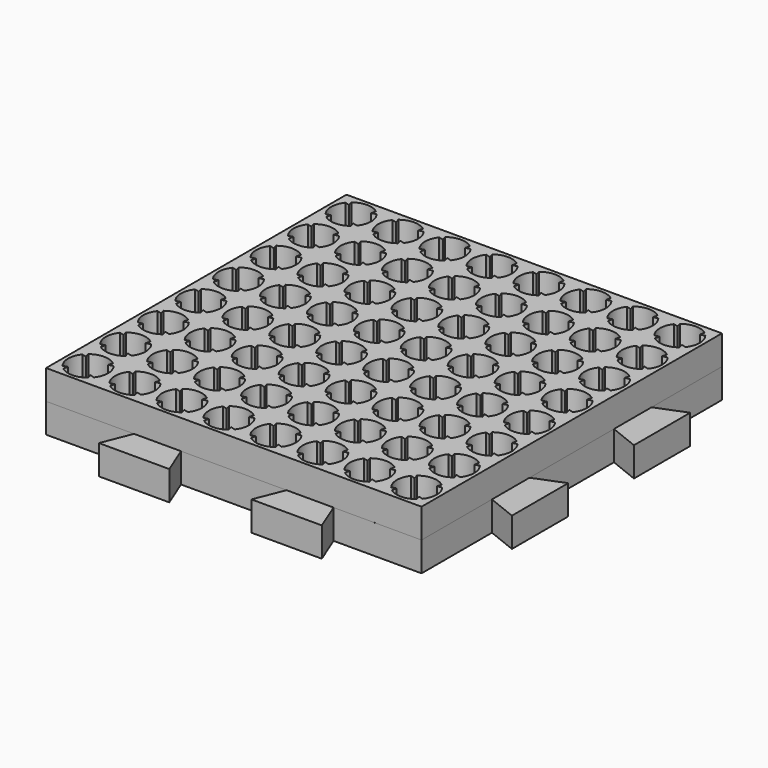
from build123d import *

# Parameters (mm, degrees)
SKETCH_W     = 64
SKETCH_H     = 64
PAD_DEPTH    = 5
PAD001_DEPTH = 5


with BuildPart() as body:
    # Sketch → Pad (new body)
    with BuildSketch(Plane.XY):
        with Locations((32, -24)):
            Rectangle(SKETCH_W, SKETCH_H)
        with BuildLine():
            ThreePointArc((1.895375, 1.32969), (4, 0.6), (6.104625, 1.32969))
            Line((5.897569, 2.102431), (6.104625, 1.32969))
            Line((6.67031, 1.895375), (5.897569, 2.102431))
            ThreePointArc((6.67031, 1.895375), (7.4, 4), (6.67031, 6.104625))
            Line((5.897569, 5.897569), (6.67031, 6.104625))
            Line((6.104625, 6.67031), (5.897569, 5.897569))
            ThreePointArc((6.104625, 6.67031), (4, 7.4), (1.895375, 6.67031))
            Line((2.102431, 5.897569), (1.895375, 6.67031))
            Line((1.32969, 6.104625), (2.102431, 5.897569))
            ThreePointArc((1.32969, 6.104625), (0.6, 4), (1.32969, 1.895375))
            Line((2.102431, 2.102431), (1.32969, 1.895375))
            Line((1.895375, 1.32969), (2.102431, 2.102431))
        make_face(mode=Mode.SUBTRACT)
        with BuildLine():
            ThreePointArc((9.898946, 1.327794), (12.003571, 0.598104), (14.108196, 1.327794))
            Line((13.90114, 2.100535), (14.108196, 1.327794))
            Line((14.673881, 1.893479), (13.90114, 2.100535))
            ThreePointArc((14.673881, 1.893479), (15.403571, 3.998104), (14.673881, 6.102729))
            Line((13.90114, 5.895673), (14.673881, 6.102729))
            Line((14.108196, 6.668414), (13.90114, 5.895673))
            ThreePointArc((14.108196, 6.668414), (12.003571, 7.398104), (9.898946, 6.668414))
            Line((10.106002, 5.895673), (9.898946, 6.668414))
            Line((9.333261, 6.102729), (10.106002, 5.895673))
            ThreePointArc((9.333261, 6.102729), (8.603571, 3.998104), (9.333261, 1.893479))
            Line((10.106002, 2.100535), (9.333261, 1.893479))
            Line((9.898946, 1.327794), (10.106002, 2.100535))
        make_face(mode=Mode.SUBTRACT)
        with BuildLine():
            ThreePointArc((17.902517, 1.325898), (20.007142, 0.596208), (22.111767, 1.325898))
            Line((21.904711, 2.098639), (22.111767, 1.325898))
            Line((22.677452, 1.891583), (21.904711, 2.098639))
            ThreePointArc((22.677452, 1.891583), (23.407142, 3.996208), (22.677452, 6.100833))
            Line((21.904711, 5.893777), (22.677452, 6.100833))
            Line((22.111767, 6.666518), (21.904711, 5.893777))
            ThreePointArc((22.111767, 6.666518), (20.007142, 7.396208), (17.902517, 6.666518))
            Line((18.109573, 5.893777), (17.902517, 6.666518))
            Line((17.336832, 6.100833), (18.109573, 5.893777))
            ThreePointArc((17.336832, 6.100833), (16.607142, 3.996208), (17.336832, 1.891583))
            Line((18.109573, 2.098639), (17.336832, 1.891583))
            Line((17.902517, 1.325898), (18.109573, 2.098639))
        make_face(mode=Mode.SUBTRACT)
        with BuildLine():
            ThreePointArc((25.906088, 1.324002), (28.010713, 0.594312), (30.115338, 1.324002))
            Line((29.908282, 2.096743), (30.115338, 1.324002))
            Line((30.681023, 1.889687), (29.908282, 2.096743))
            ThreePointArc((30.681023, 1.889687), (31.410713, 3.994312), (30.681023, 6.098937))
            Line((29.908282, 5.891881), (30.681023, 6.098937))
            Line((30.115338, 6.664622), (29.908282, 5.891881))
            ThreePointArc((30.115338, 6.664622), (28.010713, 7.394312), (25.906088, 6.664622))
            Line((26.113144, 5.891881), (25.906088, 6.664622))
            Line((25.340403, 6.098937), (26.113144, 5.891881))
            ThreePointArc((25.340403, 6.098937), (24.610713, 3.994312), (25.340403, 1.889687))
            Line((26.113144, 2.096743), (25.340403, 1.889687))
            Line((25.906088, 1.324002), (26.113144, 2.096743))
        make_face(mode=Mode.SUBTRACT)
        with BuildLine():
            ThreePointArc((33.909659, 1.322106), (36.014284, 0.592416), (38.118909, 1.322106))
            Line((37.911853, 2.094847), (38.118909, 1.322106))
            Line((38.684594, 1.887791), (37.911853, 2.094847))
            ThreePointArc((38.684594, 1.887791), (39.414284, 3.992416), (38.684594, 6.097041))
            Line((37.911853, 5.889985), (38.684594, 6.097041))
            Line((38.118909, 6.662726), (37.911853, 5.889985))
            ThreePointArc((38.118909, 6.662726), (36.014284, 7.392416), (33.909659, 6.662726))
            Line((34.116715, 5.889985), (33.909659, 6.662726))
            Line((33.343974, 6.097041), (34.116715, 5.889985))
            ThreePointArc((33.343974, 6.097041), (32.614284, 3.992416), (33.343974, 1.887791))
            Line((34.116715, 2.094847), (33.343974, 1.887791))
            Line((33.909659, 1.322106), (34.116715, 2.094847))
        make_face(mode=Mode.SUBTRACT)
        with BuildLine():
            ThreePointArc((41.91323, 1.32021), (44.017855, 0.59052), (46.12248, 1.32021))
            Line((45.915424, 2.092951), (46.12248, 1.32021))
            Line((46.688165, 1.885895), (45.915424, 2.092951))
            ThreePointArc((46.688165, 1.885895), (47.417855, 3.99052), (46.688165, 6.095145))
            Line((45.915424, 5.888089), (46.688165, 6.095145))
            Line((46.12248, 6.66083), (45.915424, 5.888089))
            ThreePointArc((46.12248, 6.66083), (44.017855, 7.39052), (41.91323, 6.66083))
            Line((42.120286, 5.888089), (41.91323, 6.66083))
            Line((41.347545, 6.095145), (42.120286, 5.888089))
            ThreePointArc((41.347545, 6.095145), (40.617855, 3.99052), (41.347545, 1.885895))
            Line((42.120286, 2.092951), (41.347545, 1.885895))
            Line((41.91323, 1.32021), (42.120286, 2.092951))
        make_face(mode=Mode.SUBTRACT)
        with BuildLine():
            ThreePointArc((49.916801, 1.318314), (52.021426, 0.588624), (54.126051, 1.318314))
            Line((53.918995, 2.091055), (54.126051, 1.318314))
            Line((54.691736, 1.883999), (53.918995, 2.091055))
            ThreePointArc((54.691736, 1.883999), (55.421426, 3.988624), (54.691736, 6.093249))
            Line((53.918995, 5.886193), (54.691736, 6.093249))
            Line((54.126051, 6.658934), (53.918995, 5.886193))
            ThreePointArc((54.126051, 6.658934), (52.021426, 7.388624), (49.916801, 6.658934))
            Line((50.123857, 5.886193), (49.916801, 6.658934))
            Line((49.351116, 6.093249), (50.123857, 5.886193))
            ThreePointArc((49.351116, 6.093249), (48.621426, 3.988624), (49.351116, 1.883999))
            Line((50.123857, 2.091055), (49.351116, 1.883999))
            Line((49.916801, 1.318314), (50.123857, 2.091055))
        make_face(mode=Mode.SUBTRACT)
        with BuildLine():
            ThreePointArc((57.920372, 1.316418), (60.024997, 0.586728), (62.129622, 1.316418))
            Line((61.922566, 2.089159), (62.129622, 1.316418))
            Line((62.695307, 1.882103), (61.922566, 2.089159))
            ThreePointArc((62.695307, 1.882103), (63.424997, 3.986728), (62.695307, 6.091353))
            Line((61.922566, 5.884297), (62.695307, 6.091353))
            Line((62.129622, 6.657038), (61.922566, 5.884297))
            ThreePointArc((62.129622, 6.657038), (60.024997, 7.386728), (57.920372, 6.657038))
            Line((58.127428, 5.884297), (57.920372, 6.657038))
            Line((57.354687, 6.091353), (58.127428, 5.884297))
            ThreePointArc((57.354687, 6.091353), (56.624997, 3.986728), (57.354687, 1.882103))
            Line((58.127428, 2.089159), (57.354687, 1.882103))
            Line((57.920372, 1.316418), (58.127428, 2.089159))
        make_face(mode=Mode.SUBTRACT)
        with BuildLine():
            ThreePointArc((1.893479, -6.673881), (3.998104, -7.403571), (6.102729, -6.673881))
            Line((5.895673, -5.90114), (6.102729, -6.673881))
            Line((6.668414, -6.108196), (5.895673, -5.90114))
            ThreePointArc((6.668414, -6.108196), (7.398104, -4.003571), (6.668414, -1.898946))
            Line((5.895673, -2.106002), (6.668414, -1.898946))
            Line((6.102729, -1.333261), (5.895673, -2.106002))
            ThreePointArc((6.102729, -1.333261), (3.998104, -0.603571), (1.893479, -1.333261))
            Line((2.100535, -2.106002), (1.893479, -1.333261))
            Line((1.327794, -1.898946), (2.100535, -2.106002))
            ThreePointArc((1.327794, -1.898946), (0.598104, -4.003571), (1.327794, -6.108196))
            Line((2.100535, -5.90114), (1.327794, -6.108196))
            Line((1.893479, -6.673881), (2.100535, -5.90114))
        make_face(mode=Mode.SUBTRACT)
        with BuildLine():
            ThreePointArc((9.89705, -6.675777), (12.001675, -7.405467), (14.1063, -6.675777))
            Line((13.899244, -5.903036), (14.1063, -6.675777))
            Line((14.671985, -6.110092), (13.899244, -5.903036))
            ThreePointArc((14.671985, -6.110092), (15.401675, -4.005467), (14.671985, -1.900842))
            Line((13.899244, -2.107898), (14.671985, -1.900842))
            Line((14.1063, -1.335157), (13.899244, -2.107898))
            ThreePointArc((14.1063, -1.335157), (12.001675, -0.605467), (9.89705, -1.335157))
            Line((10.104106, -2.107898), (9.89705, -1.335157))
            Line((9.331365, -1.900842), (10.104106, -2.107898))
            ThreePointArc((9.331365, -1.900842), (8.601675, -4.005467), (9.331365, -6.110092))
            Line((10.104106, -5.903036), (9.331365, -6.110092))
            Line((9.89705, -6.675777), (10.104106, -5.903036))
        make_face(mode=Mode.SUBTRACT)
        with BuildLine():
            ThreePointArc((17.900621, -6.677673), (20.005246, -7.407363), (22.109871, -6.677673))
            Line((21.902815, -5.904932), (22.109871, -6.677673))
            Line((22.675556, -6.111988), (21.902815, -5.904932))
            ThreePointArc((22.675556, -6.111988), (23.405246, -4.007363), (22.675556, -1.902738))
            Line((21.902815, -2.109794), (22.675556, -1.902738))
            Line((22.109871, -1.337053), (21.902815, -2.109794))
            ThreePointArc((22.109871, -1.337053), (20.005246, -0.607363), (17.900621, -1.337053))
            Line((18.107677, -2.109794), (17.900621, -1.337053))
            Line((17.334936, -1.902738), (18.107677, -2.109794))
            ThreePointArc((17.334936, -1.902738), (16.605246, -4.007363), (17.334936, -6.111988))
            Line((18.107677, -5.904932), (17.334936, -6.111988))
            Line((17.900621, -6.677673), (18.107677, -5.904932))
        make_face(mode=Mode.SUBTRACT)
        with BuildLine():
            ThreePointArc((25.904192, -6.679569), (28.008817, -7.409259), (30.113442, -6.679569))
            Line((29.906386, -5.906828), (30.113442, -6.679569))
            Line((30.679127, -6.113884), (29.906386, -5.906828))
            ThreePointArc((30.679127, -6.113884), (31.408817, -4.009259), (30.679127, -1.904634))
            Line((29.906386, -2.11169), (30.679127, -1.904634))
            Line((30.113442, -1.338949), (29.906386, -2.11169))
            ThreePointArc((30.113442, -1.338949), (28.008817, -0.609259), (25.904192, -1.338949))
            Line((26.111248, -2.11169), (25.904192, -1.338949))
            Line((25.338507, -1.904634), (26.111248, -2.11169))
            ThreePointArc((25.338507, -1.904634), (24.608817, -4.009259), (25.338507, -6.113884))
            Line((26.111248, -5.906828), (25.338507, -6.113884))
            Line((25.904192, -6.679569), (26.111248, -5.906828))
        make_face(mode=Mode.SUBTRACT)
        with BuildLine():
            ThreePointArc((33.907763, -6.681465), (36.012388, -7.411155), (38.117013, -6.681465))
            Line((37.909957, -5.908724), (38.117013, -6.681465))
            Line((38.682698, -6.11578), (37.909957, -5.908724))
            ThreePointArc((38.682698, -6.11578), (39.412388, -4.011155), (38.682698, -1.90653))
            Line((37.909957, -2.113586), (38.682698, -1.90653))
            Line((38.117013, -1.340845), (37.909957, -2.113586))
            ThreePointArc((38.117013, -1.340845), (36.012388, -0.611155), (33.907763, -1.340845))
            Line((34.114819, -2.113586), (33.907763, -1.340845))
            Line((33.342078, -1.90653), (34.114819, -2.113586))
            ThreePointArc((33.342078, -1.90653), (32.612388, -4.011155), (33.342078, -6.11578))
            Line((34.114819, -5.908724), (33.342078, -6.11578))
            Line((33.907763, -6.681465), (34.114819, -5.908724))
        make_face(mode=Mode.SUBTRACT)
        with BuildLine():
            ThreePointArc((41.911334, -6.683361), (44.015959, -7.413051), (46.120584, -6.683361))
            Line((45.913528, -5.91062), (46.120584, -6.683361))
            Line((46.686269, -6.117676), (45.913528, -5.91062))
            ThreePointArc((46.686269, -6.117676), (47.415959, -4.013051), (46.686269, -1.908426))
            Line((45.913528, -2.115482), (46.686269, -1.908426))
            Line((46.120584, -1.342741), (45.913528, -2.115482))
            ThreePointArc((46.120584, -1.342741), (44.015959, -0.613051), (41.911334, -1.342741))
            Line((42.11839, -2.115482), (41.911334, -1.342741))
            Line((41.345649, -1.908426), (42.11839, -2.115482))
            ThreePointArc((41.345649, -1.908426), (40.615959, -4.013051), (41.345649, -6.117676))
            Line((42.11839, -5.91062), (41.345649, -6.117676))
            Line((41.911334, -6.683361), (42.11839, -5.91062))
        make_face(mode=Mode.SUBTRACT)
        with BuildLine():
            ThreePointArc((49.914905, -6.685257), (52.01953, -7.414947), (54.124155, -6.685257))
            Line((53.917099, -5.912516), (54.124155, -6.685257))
            Line((54.68984, -6.119572), (53.917099, -5.912516))
            ThreePointArc((54.68984, -6.119572), (55.41953, -4.014947), (54.68984, -1.910322))
            Line((53.917099, -2.117378), (54.68984, -1.910322))
            Line((54.124155, -1.344637), (53.917099, -2.117378))
            ThreePointArc((54.124155, -1.344637), (52.01953, -0.614947), (49.914905, -1.344637))
            Line((50.121961, -2.117378), (49.914905, -1.344637))
            Line((49.34922, -1.910322), (50.121961, -2.117378))
            ThreePointArc((49.34922, -1.910322), (48.61953, -4.014947), (49.34922, -6.119572))
            Line((50.121961, -5.912516), (49.34922, -6.119572))
            Line((49.914905, -6.685257), (50.121961, -5.912516))
        make_face(mode=Mode.SUBTRACT)
        with BuildLine():
            ThreePointArc((57.918476, -6.687153), (60.023101, -7.416843), (62.127726, -6.687153))
            Line((61.92067, -5.914412), (62.127726, -6.687153))
            Line((62.693411, -6.121468), (61.92067, -5.914412))
            ThreePointArc((62.693411, -6.121468), (63.423101, -4.016843), (62.693411, -1.912218))
            Line((61.92067, -2.119274), (62.693411, -1.912218))
            Line((62.127726, -1.346533), (61.92067, -2.119274))
            ThreePointArc((62.127726, -1.346533), (60.023101, -0.616843), (57.918476, -1.346533))
            Line((58.125532, -2.119274), (57.918476, -1.346533))
            Line((57.352791, -1.912218), (58.125532, -2.119274))
            ThreePointArc((57.352791, -1.912218), (56.623101, -4.016843), (57.352791, -6.121468))
            Line((58.125532, -5.914412), (57.352791, -6.121468))
            Line((57.918476, -6.687153), (58.125532, -5.914412))
        make_face(mode=Mode.SUBTRACT)
        with BuildLine():
            ThreePointArc((1.891583, -14.677452), (3.996208, -15.407142), (6.100833, -14.677452))
            Line((5.893777, -13.904711), (6.100833, -14.677452))
            Line((6.666518, -14.111767), (5.893777, -13.904711))
            ThreePointArc((6.666518, -14.111767), (7.396208, -12.007142), (6.666518, -9.902517))
            Line((5.893777, -10.109573), (6.666518, -9.902517))
            Line((6.100833, -9.336832), (5.893777, -10.109573))
            ThreePointArc((6.100833, -9.336832), (3.996208, -8.607142), (1.891583, -9.336832))
            Line((2.098639, -10.109573), (1.891583, -9.336832))
            Line((1.325898, -9.902517), (2.098639, -10.109573))
            ThreePointArc((1.325898, -9.902517), (0.596208, -12.007142), (1.325898, -14.111767))
            Line((2.098639, -13.904711), (1.325898, -14.111767))
            Line((1.891583, -14.677452), (2.098639, -13.904711))
        make_face(mode=Mode.SUBTRACT)
        with BuildLine():
            ThreePointArc((9.895154, -14.679348), (11.999779, -15.409038), (14.104404, -14.679348))
            Line((13.897348, -13.906607), (14.104404, -14.679348))
            Line((14.670089, -14.113663), (13.897348, -13.906607))
            ThreePointArc((14.670089, -14.113663), (15.399779, -12.009038), (14.670089, -9.904413))
            Line((13.897348, -10.111469), (14.670089, -9.904413))
            Line((14.104404, -9.338728), (13.897348, -10.111469))
            ThreePointArc((14.104404, -9.338728), (11.999779, -8.609038), (9.895154, -9.338728))
            Line((10.10221, -10.111469), (9.895154, -9.338728))
            Line((9.329469, -9.904413), (10.10221, -10.111469))
            ThreePointArc((9.329469, -9.904413), (8.599779, -12.009038), (9.329469, -14.113663))
            Line((10.10221, -13.906607), (9.329469, -14.113663))
            Line((9.895154, -14.679348), (10.10221, -13.906607))
        make_face(mode=Mode.SUBTRACT)
        with BuildLine():
            ThreePointArc((17.898725, -14.681244), (20.00335, -15.410934), (22.107975, -14.681244))
            Line((21.900919, -13.908503), (22.107975, -14.681244))
            Line((22.67366, -14.115559), (21.900919, -13.908503))
            ThreePointArc((22.67366, -14.115559), (23.40335, -12.010934), (22.67366, -9.906309))
            Line((21.900919, -10.113365), (22.67366, -9.906309))
            Line((22.107975, -9.340624), (21.900919, -10.113365))
            ThreePointArc((22.107975, -9.340624), (20.00335, -8.610934), (17.898725, -9.340624))
            Line((18.105781, -10.113365), (17.898725, -9.340624))
            Line((17.33304, -9.906309), (18.105781, -10.113365))
            ThreePointArc((17.33304, -9.906309), (16.60335, -12.010934), (17.33304, -14.115559))
            Line((18.105781, -13.908503), (17.33304, -14.115559))
            Line((17.898725, -14.681244), (18.105781, -13.908503))
        make_face(mode=Mode.SUBTRACT)
        with BuildLine():
            ThreePointArc((25.902296, -14.68314), (28.006921, -15.41283), (30.111546, -14.68314))
            Line((29.90449, -13.910399), (30.111546, -14.68314))
            Line((30.677231, -14.117455), (29.90449, -13.910399))
            ThreePointArc((30.677231, -14.117455), (31.406921, -12.01283), (30.677231, -9.908205))
            Line((29.90449, -10.115261), (30.677231, -9.908205))
            Line((30.111546, -9.34252), (29.90449, -10.115261))
            ThreePointArc((30.111546, -9.34252), (28.006921, -8.61283), (25.902296, -9.34252))
            Line((26.109352, -10.115261), (25.902296, -9.34252))
            Line((25.336611, -9.908205), (26.109352, -10.115261))
            ThreePointArc((25.336611, -9.908205), (24.606921, -12.01283), (25.336611, -14.117455))
            Line((26.109352, -13.910399), (25.336611, -14.117455))
            Line((25.902296, -14.68314), (26.109352, -13.910399))
        make_face(mode=Mode.SUBTRACT)
        with BuildLine():
            ThreePointArc((33.905867, -14.685036), (36.010492, -15.414726), (38.115117, -14.685036))
            Line((37.908061, -13.912295), (38.115117, -14.685036))
            Line((38.680802, -14.119351), (37.908061, -13.912295))
            ThreePointArc((38.680802, -14.119351), (39.410492, -12.014726), (38.680802, -9.910101))
            Line((37.908061, -10.117157), (38.680802, -9.910101))
            Line((38.115117, -9.344416), (37.908061, -10.117157))
            ThreePointArc((38.115117, -9.344416), (36.010492, -8.614726), (33.905867, -9.344416))
            Line((34.112923, -10.117157), (33.905867, -9.344416))
            Line((33.340182, -9.910101), (34.112923, -10.117157))
            ThreePointArc((33.340182, -9.910101), (32.610492, -12.014726), (33.340182, -14.119351))
            Line((34.112923, -13.912295), (33.340182, -14.119351))
            Line((33.905867, -14.685036), (34.112923, -13.912295))
        make_face(mode=Mode.SUBTRACT)
        with BuildLine():
            ThreePointArc((41.909438, -14.686932), (44.014063, -15.416622), (46.118688, -14.686932))
            Line((45.911632, -13.914191), (46.118688, -14.686932))
            Line((46.684373, -14.121247), (45.911632, -13.914191))
            ThreePointArc((46.684373, -14.121247), (47.414063, -12.016622), (46.684373, -9.911997))
            Line((45.911632, -10.119053), (46.684373, -9.911997))
            Line((46.118688, -9.346312), (45.911632, -10.119053))
            ThreePointArc((46.118688, -9.346312), (44.014063, -8.616622), (41.909438, -9.346312))
            Line((42.116494, -10.119053), (41.909438, -9.346312))
            Line((41.343753, -9.911997), (42.116494, -10.119053))
            ThreePointArc((41.343753, -9.911997), (40.614063, -12.016622), (41.343753, -14.121247))
            Line((42.116494, -13.914191), (41.343753, -14.121247))
            Line((41.909438, -14.686932), (42.116494, -13.914191))
        make_face(mode=Mode.SUBTRACT)
        with BuildLine():
            ThreePointArc((49.913009, -14.688828), (52.017634, -15.418518), (54.122259, -14.688828))
            Line((53.915203, -13.916087), (54.122259, -14.688828))
            Line((54.687944, -14.123143), (53.915203, -13.916087))
            ThreePointArc((54.687944, -14.123143), (55.417634, -12.018518), (54.687944, -9.913893))
            Line((53.915203, -10.120949), (54.687944, -9.913893))
            Line((54.122259, -9.348208), (53.915203, -10.120949))
            ThreePointArc((54.122259, -9.348208), (52.017634, -8.618518), (49.913009, -9.348208))
            Line((50.120065, -10.120949), (49.913009, -9.348208))
            Line((49.347324, -9.913893), (50.120065, -10.120949))
            ThreePointArc((49.347324, -9.913893), (48.617634, -12.018518), (49.347324, -14.123143))
            Line((50.120065, -13.916087), (49.347324, -14.123143))
            Line((49.913009, -14.688828), (50.120065, -13.916087))
        make_face(mode=Mode.SUBTRACT)
        with BuildLine():
            ThreePointArc((57.91658, -14.690724), (60.021205, -15.420414), (62.12583, -14.690724))
            Line((61.918774, -13.917983), (62.12583, -14.690724))
            Line((62.691515, -14.125039), (61.918774, -13.917983))
            ThreePointArc((62.691515, -14.125039), (63.421205, -12.020414), (62.691515, -9.915789))
            Line((61.918774, -10.122845), (62.691515, -9.915789))
            Line((62.12583, -9.350104), (61.918774, -10.122845))
            ThreePointArc((62.12583, -9.350104), (60.021205, -8.620414), (57.91658, -9.350104))
            Line((58.123636, -10.122845), (57.91658, -9.350104))
            Line((57.350895, -9.915789), (58.123636, -10.122845))
            ThreePointArc((57.350895, -9.915789), (56.621205, -12.020414), (57.350895, -14.125039))
            Line((58.123636, -13.917983), (57.350895, -14.125039))
            Line((57.91658, -14.690724), (58.123636, -13.917983))
        make_face(mode=Mode.SUBTRACT)
        with BuildLine():
            ThreePointArc((1.889687, -22.681023), (3.994312, -23.410713), (6.098937, -22.681023))
            Line((5.891881, -21.908282), (6.098937, -22.681023))
            Line((6.664622, -22.115338), (5.891881, -21.908282))
            ThreePointArc((6.664622, -22.115338), (7.394312, -20.010713), (6.664622, -17.906088))
            Line((5.891881, -18.113144), (6.664622, -17.906088))
            Line((6.098937, -17.340403), (5.891881, -18.113144))
            ThreePointArc((6.098937, -17.340403), (3.994312, -16.610713), (1.889687, -17.340403))
            Line((2.096743, -18.113144), (1.889687, -17.340403))
            Line((1.324002, -17.906088), (2.096743, -18.113144))
            ThreePointArc((1.324002, -17.906088), (0.594312, -20.010713), (1.324002, -22.115338))
            Line((2.096743, -21.908282), (1.324002, -22.115338))
            Line((1.889687, -22.681023), (2.096743, -21.908282))
        make_face(mode=Mode.SUBTRACT)
        with BuildLine():
            ThreePointArc((9.893258, -22.682919), (11.997883, -23.412609), (14.102508, -22.682919))
            Line((13.895452, -21.910178), (14.102508, -22.682919))
            Line((14.668193, -22.117234), (13.895452, -21.910178))
            ThreePointArc((14.668193, -22.117234), (15.397883, -20.012609), (14.668193, -17.907984))
            Line((13.895452, -18.11504), (14.668193, -17.907984))
            Line((14.102508, -17.342299), (13.895452, -18.11504))
            ThreePointArc((14.102508, -17.342299), (11.997883, -16.612609), (9.893258, -17.342299))
            Line((10.100314, -18.11504), (9.893258, -17.342299))
            Line((9.327573, -17.907984), (10.100314, -18.11504))
            ThreePointArc((9.327573, -17.907984), (8.597883, -20.012609), (9.327573, -22.117234))
            Line((10.100314, -21.910178), (9.327573, -22.117234))
            Line((9.893258, -22.682919), (10.100314, -21.910178))
        make_face(mode=Mode.SUBTRACT)
        with BuildLine():
            ThreePointArc((17.896829, -22.684815), (20.001454, -23.414505), (22.106079, -22.684815))
            Line((21.899023, -21.912074), (22.106079, -22.684815))
            Line((22.671764, -22.11913), (21.899023, -21.912074))
            ThreePointArc((22.671764, -22.11913), (23.401454, -20.014505), (22.671764, -17.90988))
            Line((21.899023, -18.116936), (22.671764, -17.90988))
            Line((22.106079, -17.344195), (21.899023, -18.116936))
            ThreePointArc((22.106079, -17.344195), (20.001454, -16.614505), (17.896829, -17.344195))
            Line((18.103885, -18.116936), (17.896829, -17.344195))
            Line((17.331144, -17.90988), (18.103885, -18.116936))
            ThreePointArc((17.331144, -17.90988), (16.601454, -20.014505), (17.331144, -22.11913))
            Line((18.103885, -21.912074), (17.331144, -22.11913))
            Line((17.896829, -22.684815), (18.103885, -21.912074))
        make_face(mode=Mode.SUBTRACT)
        with BuildLine():
            ThreePointArc((25.9004, -22.686711), (28.005025, -23.416401), (30.10965, -22.686711))
            Line((29.902594, -21.91397), (30.10965, -22.686711))
            Line((30.675335, -22.121026), (29.902594, -21.91397))
            ThreePointArc((30.675335, -22.121026), (31.405025, -20.016401), (30.675335, -17.911776))
            Line((29.902594, -18.118832), (30.675335, -17.911776))
            Line((30.10965, -17.346091), (29.902594, -18.118832))
            ThreePointArc((30.10965, -17.346091), (28.005025, -16.616401), (25.9004, -17.346091))
            Line((26.107456, -18.118832), (25.9004, -17.346091))
            Line((25.334715, -17.911776), (26.107456, -18.118832))
            ThreePointArc((25.334715, -17.911776), (24.605025, -20.016401), (25.334715, -22.121026))
            Line((26.107456, -21.91397), (25.334715, -22.121026))
            Line((25.9004, -22.686711), (26.107456, -21.91397))
        make_face(mode=Mode.SUBTRACT)
        with BuildLine():
            ThreePointArc((33.903971, -22.688607), (36.008596, -23.418297), (38.113221, -22.688607))
            Line((37.906165, -21.915866), (38.113221, -22.688607))
            Line((38.678906, -22.122922), (37.906165, -21.915866))
            ThreePointArc((38.678906, -22.122922), (39.408596, -20.018297), (38.678906, -17.913672))
            Line((37.906165, -18.120728), (38.678906, -17.913672))
            Line((38.113221, -17.347987), (37.906165, -18.120728))
            ThreePointArc((38.113221, -17.347987), (36.008596, -16.618297), (33.903971, -17.347987))
            Line((34.111027, -18.120728), (33.903971, -17.347987))
            Line((33.338286, -17.913672), (34.111027, -18.120728))
            ThreePointArc((33.338286, -17.913672), (32.608596, -20.018297), (33.338286, -22.122922))
            Line((34.111027, -21.915866), (33.338286, -22.122922))
            Line((33.903971, -22.688607), (34.111027, -21.915866))
        make_face(mode=Mode.SUBTRACT)
        with BuildLine():
            ThreePointArc((41.907542, -22.690503), (44.012167, -23.420193), (46.116792, -22.690503))
            Line((45.909736, -21.917762), (46.116792, -22.690503))
            Line((46.682477, -22.124818), (45.909736, -21.917762))
            ThreePointArc((46.682477, -22.124818), (47.412167, -20.020193), (46.682477, -17.915568))
            Line((45.909736, -18.122624), (46.682477, -17.915568))
            Line((46.116792, -17.349883), (45.909736, -18.122624))
            ThreePointArc((46.116792, -17.349883), (44.012167, -16.620193), (41.907542, -17.349883))
            Line((42.114598, -18.122624), (41.907542, -17.349883))
            Line((41.341857, -17.915568), (42.114598, -18.122624))
            ThreePointArc((41.341857, -17.915568), (40.612167, -20.020193), (41.341857, -22.124818))
            Line((42.114598, -21.917762), (41.341857, -22.124818))
            Line((41.907542, -22.690503), (42.114598, -21.917762))
        make_face(mode=Mode.SUBTRACT)
        with BuildLine():
            ThreePointArc((49.911113, -22.692399), (52.015738, -23.422089), (54.120363, -22.692399))
            Line((53.913307, -21.919658), (54.120363, -22.692399))
            Line((54.686048, -22.126714), (53.913307, -21.919658))
            ThreePointArc((54.686048, -22.126714), (55.415738, -20.022089), (54.686048, -17.917464))
            Line((53.913307, -18.12452), (54.686048, -17.917464))
            Line((54.120363, -17.351779), (53.913307, -18.12452))
            ThreePointArc((54.120363, -17.351779), (52.015738, -16.622089), (49.911113, -17.351779))
            Line((50.118169, -18.12452), (49.911113, -17.351779))
            Line((49.345428, -17.917464), (50.118169, -18.12452))
            ThreePointArc((49.345428, -17.917464), (48.615738, -20.022089), (49.345428, -22.126714))
            Line((50.118169, -21.919658), (49.345428, -22.126714))
            Line((49.911113, -22.692399), (50.118169, -21.919658))
        make_face(mode=Mode.SUBTRACT)
        with BuildLine():
            ThreePointArc((57.914684, -22.694295), (60.019309, -23.423985), (62.123934, -22.694295))
            Line((61.916878, -21.921554), (62.123934, -22.694295))
            Line((62.689619, -22.12861), (61.916878, -21.921554))
            ThreePointArc((62.689619, -22.12861), (63.419309, -20.023985), (62.689619, -17.91936))
            Line((61.916878, -18.126416), (62.689619, -17.91936))
            Line((62.123934, -17.353675), (61.916878, -18.126416))
            ThreePointArc((62.123934, -17.353675), (60.019309, -16.623985), (57.914684, -17.353675))
            Line((58.12174, -18.126416), (57.914684, -17.353675))
            Line((57.348999, -17.91936), (58.12174, -18.126416))
            ThreePointArc((57.348999, -17.91936), (56.619309, -20.023985), (57.348999, -22.12861))
            Line((58.12174, -21.921554), (57.348999, -22.12861))
            Line((57.914684, -22.694295), (58.12174, -21.921554))
        make_face(mode=Mode.SUBTRACT)
        with BuildLine():
            ThreePointArc((1.887791, -30.684594), (3.992416, -31.414284), (6.097041, -30.684594))
            Line((5.889985, -29.911853), (6.097041, -30.684594))
            Line((6.662726, -30.118909), (5.889985, -29.911853))
            ThreePointArc((6.662726, -30.118909), (7.392416, -28.014284), (6.662726, -25.909659))
            Line((5.889985, -26.116715), (6.662726, -25.909659))
            Line((6.097041, -25.343974), (5.889985, -26.116715))
            ThreePointArc((6.097041, -25.343974), (3.992416, -24.614284), (1.887791, -25.343974))
            Line((2.094847, -26.116715), (1.887791, -25.343974))
            Line((1.322106, -25.909659), (2.094847, -26.116715))
            ThreePointArc((1.322106, -25.909659), (0.592416, -28.014284), (1.322106, -30.118909))
            Line((2.094847, -29.911853), (1.322106, -30.118909))
            Line((1.887791, -30.684594), (2.094847, -29.911853))
        make_face(mode=Mode.SUBTRACT)
        with BuildLine():
            ThreePointArc((9.891362, -30.68649), (11.995987, -31.41618), (14.100612, -30.68649))
            Line((13.893556, -29.913749), (14.100612, -30.68649))
            Line((14.666297, -30.120805), (13.893556, -29.913749))
            ThreePointArc((14.666297, -30.120805), (15.395987, -28.01618), (14.666297, -25.911555))
            Line((13.893556, -26.118611), (14.666297, -25.911555))
            Line((14.100612, -25.34587), (13.893556, -26.118611))
            ThreePointArc((14.100612, -25.34587), (11.995987, -24.61618), (9.891362, -25.34587))
            Line((10.098418, -26.118611), (9.891362, -25.34587))
            Line((9.325677, -25.911555), (10.098418, -26.118611))
            ThreePointArc((9.325677, -25.911555), (8.595987, -28.01618), (9.325677, -30.120805))
            Line((10.098418, -29.913749), (9.325677, -30.120805))
            Line((9.891362, -30.68649), (10.098418, -29.913749))
        make_face(mode=Mode.SUBTRACT)
        with BuildLine():
            ThreePointArc((17.894933, -30.688386), (19.999558, -31.418076), (22.104183, -30.688386))
            Line((21.897127, -29.915645), (22.104183, -30.688386))
            Line((22.669868, -30.122701), (21.897127, -29.915645))
            ThreePointArc((22.669868, -30.122701), (23.399558, -28.018076), (22.669868, -25.913451))
            Line((21.897127, -26.120507), (22.669868, -25.913451))
            Line((22.104183, -25.347766), (21.897127, -26.120507))
            ThreePointArc((22.104183, -25.347766), (19.999558, -24.618076), (17.894933, -25.347766))
            Line((18.101989, -26.120507), (17.894933, -25.347766))
            Line((17.329248, -25.913451), (18.101989, -26.120507))
            ThreePointArc((17.329248, -25.913451), (16.599558, -28.018076), (17.329248, -30.122701))
            Line((18.101989, -29.915645), (17.329248, -30.122701))
            Line((17.894933, -30.688386), (18.101989, -29.915645))
        make_face(mode=Mode.SUBTRACT)
        with BuildLine():
            ThreePointArc((25.898504, -30.690282), (28.003129, -31.419972), (30.107754, -30.690282))
            Line((29.900698, -29.917541), (30.107754, -30.690282))
            Line((30.673439, -30.124597), (29.900698, -29.917541))
            ThreePointArc((30.673439, -30.124597), (31.403129, -28.019972), (30.673439, -25.915347))
            Line((29.900698, -26.122403), (30.673439, -25.915347))
            Line((30.107754, -25.349662), (29.900698, -26.122403))
            ThreePointArc((30.107754, -25.349662), (28.003129, -24.619972), (25.898504, -25.349662))
            Line((26.10556, -26.122403), (25.898504, -25.349662))
            Line((25.332819, -25.915347), (26.10556, -26.122403))
            ThreePointArc((25.332819, -25.915347), (24.603129, -28.019972), (25.332819, -30.124597))
            Line((26.10556, -29.917541), (25.332819, -30.124597))
            Line((25.898504, -30.690282), (26.10556, -29.917541))
        make_face(mode=Mode.SUBTRACT)
        with BuildLine():
            ThreePointArc((33.902075, -30.692178), (36.0067, -31.421868), (38.111325, -30.692178))
            Line((37.904269, -29.919437), (38.111325, -30.692178))
            Line((38.67701, -30.126493), (37.904269, -29.919437))
            ThreePointArc((38.67701, -30.126493), (39.4067, -28.021868), (38.67701, -25.917243))
            Line((37.904269, -26.124299), (38.67701, -25.917243))
            Line((38.111325, -25.351558), (37.904269, -26.124299))
            ThreePointArc((38.111325, -25.351558), (36.0067, -24.621868), (33.902075, -25.351558))
            Line((34.109131, -26.124299), (33.902075, -25.351558))
            Line((33.33639, -25.917243), (34.109131, -26.124299))
            ThreePointArc((33.33639, -25.917243), (32.6067, -28.021868), (33.33639, -30.126493))
            Line((34.109131, -29.919437), (33.33639, -30.126493))
            Line((33.902075, -30.692178), (34.109131, -29.919437))
        make_face(mode=Mode.SUBTRACT)
        with BuildLine():
            ThreePointArc((41.905646, -30.694074), (44.010271, -31.423764), (46.114896, -30.694074))
            Line((45.90784, -29.921333), (46.114896, -30.694074))
            Line((46.680581, -30.128389), (45.90784, -29.921333))
            ThreePointArc((46.680581, -30.128389), (47.410271, -28.023764), (46.680581, -25.919139))
            Line((45.90784, -26.126195), (46.680581, -25.919139))
            Line((46.114896, -25.353454), (45.90784, -26.126195))
            ThreePointArc((46.114896, -25.353454), (44.010271, -24.623764), (41.905646, -25.353454))
            Line((42.112702, -26.126195), (41.905646, -25.353454))
            Line((41.339961, -25.919139), (42.112702, -26.126195))
            ThreePointArc((41.339961, -25.919139), (40.610271, -28.023764), (41.339961, -30.128389))
            Line((42.112702, -29.921333), (41.339961, -30.128389))
            Line((41.905646, -30.694074), (42.112702, -29.921333))
        make_face(mode=Mode.SUBTRACT)
        with BuildLine():
            ThreePointArc((49.909217, -30.69597), (52.013842, -31.42566), (54.118467, -30.69597))
            Line((53.911411, -29.923229), (54.118467, -30.69597))
            Line((54.684152, -30.130285), (53.911411, -29.923229))
            ThreePointArc((54.684152, -30.130285), (55.413842, -28.02566), (54.684152, -25.921035))
            Line((53.911411, -26.128091), (54.684152, -25.921035))
            Line((54.118467, -25.35535), (53.911411, -26.128091))
            ThreePointArc((54.118467, -25.35535), (52.013842, -24.62566), (49.909217, -25.35535))
            Line((50.116273, -26.128091), (49.909217, -25.35535))
            Line((49.343532, -25.921035), (50.116273, -26.128091))
            ThreePointArc((49.343532, -25.921035), (48.613842, -28.02566), (49.343532, -30.130285))
            Line((50.116273, -29.923229), (49.343532, -30.130285))
            Line((49.909217, -30.69597), (50.116273, -29.923229))
        make_face(mode=Mode.SUBTRACT)
        with BuildLine():
            ThreePointArc((57.912788, -30.697866), (60.017413, -31.427556), (62.122038, -30.697866))
            Line((61.914982, -29.925125), (62.122038, -30.697866))
            Line((62.687723, -30.132181), (61.914982, -29.925125))
            ThreePointArc((62.687723, -30.132181), (63.417413, -28.027556), (62.687723, -25.922931))
            Line((61.914982, -26.129987), (62.687723, -25.922931))
            Line((62.122038, -25.357246), (61.914982, -26.129987))
            ThreePointArc((62.122038, -25.357246), (60.017413, -24.627556), (57.912788, -25.357246))
            Line((58.119844, -26.129987), (57.912788, -25.357246))
            Line((57.347103, -25.922931), (58.119844, -26.129987))
            ThreePointArc((57.347103, -25.922931), (56.617413, -28.027556), (57.347103, -30.132181))
            Line((58.119844, -29.925125), (57.347103, -30.132181))
            Line((57.912788, -30.697866), (58.119844, -29.925125))
        make_face(mode=Mode.SUBTRACT)
        with BuildLine():
            ThreePointArc((1.885895, -38.688165), (3.99052, -39.417855), (6.095145, -38.688165))
            Line((5.888089, -37.915424), (6.095145, -38.688165))
            Line((6.66083, -38.12248), (5.888089, -37.915424))
            ThreePointArc((6.66083, -38.12248), (7.39052, -36.017855), (6.66083, -33.91323))
            Line((5.888089, -34.120286), (6.66083, -33.91323))
            Line((6.095145, -33.347545), (5.888089, -34.120286))
            ThreePointArc((6.095145, -33.347545), (3.99052, -32.617855), (1.885895, -33.347545))
            Line((2.092951, -34.120286), (1.885895, -33.347545))
            Line((1.32021, -33.91323), (2.092951, -34.120286))
            ThreePointArc((1.32021, -33.91323), (0.59052, -36.017855), (1.32021, -38.12248))
            Line((2.092951, -37.915424), (1.32021, -38.12248))
            Line((1.885895, -38.688165), (2.092951, -37.915424))
        make_face(mode=Mode.SUBTRACT)
        with BuildLine():
            ThreePointArc((9.889466, -38.690061), (11.994091, -39.419751), (14.098716, -38.690061))
            Line((13.89166, -37.91732), (14.098716, -38.690061))
            Line((14.664401, -38.124376), (13.89166, -37.91732))
            ThreePointArc((14.664401, -38.124376), (15.394091, -36.019751), (14.664401, -33.915126))
            Line((13.89166, -34.122182), (14.664401, -33.915126))
            Line((14.098716, -33.349441), (13.89166, -34.122182))
            ThreePointArc((14.098716, -33.349441), (11.994091, -32.619751), (9.889466, -33.349441))
            Line((10.096522, -34.122182), (9.889466, -33.349441))
            Line((9.323781, -33.915126), (10.096522, -34.122182))
            ThreePointArc((9.323781, -33.915126), (8.594091, -36.019751), (9.323781, -38.124376))
            Line((10.096522, -37.91732), (9.323781, -38.124376))
            Line((9.889466, -38.690061), (10.096522, -37.91732))
        make_face(mode=Mode.SUBTRACT)
        with BuildLine():
            ThreePointArc((17.893037, -38.691957), (19.997662, -39.421647), (22.102287, -38.691957))
            Line((21.895231, -37.919216), (22.102287, -38.691957))
            Line((22.667972, -38.126272), (21.895231, -37.919216))
            ThreePointArc((22.667972, -38.126272), (23.397662, -36.021647), (22.667972, -33.917022))
            Line((21.895231, -34.124078), (22.667972, -33.917022))
            Line((22.102287, -33.351337), (21.895231, -34.124078))
            ThreePointArc((22.102287, -33.351337), (19.997662, -32.621647), (17.893037, -33.351337))
            Line((18.100093, -34.124078), (17.893037, -33.351337))
            Line((17.327352, -33.917022), (18.100093, -34.124078))
            ThreePointArc((17.327352, -33.917022), (16.597662, -36.021647), (17.327352, -38.126272))
            Line((18.100093, -37.919216), (17.327352, -38.126272))
            Line((17.893037, -38.691957), (18.100093, -37.919216))
        make_face(mode=Mode.SUBTRACT)
        with BuildLine():
            ThreePointArc((25.896608, -38.693853), (28.001233, -39.423543), (30.105858, -38.693853))
            Line((29.898802, -37.921112), (30.105858, -38.693853))
            Line((30.671543, -38.128168), (29.898802, -37.921112))
            ThreePointArc((30.671543, -38.128168), (31.401233, -36.023543), (30.671543, -33.918918))
            Line((29.898802, -34.125974), (30.671543, -33.918918))
            Line((30.105858, -33.353233), (29.898802, -34.125974))
            ThreePointArc((30.105858, -33.353233), (28.001233, -32.623543), (25.896608, -33.353233))
            Line((26.103664, -34.125974), (25.896608, -33.353233))
            Line((25.330923, -33.918918), (26.103664, -34.125974))
            ThreePointArc((25.330923, -33.918918), (24.601233, -36.023543), (25.330923, -38.128168))
            Line((26.103664, -37.921112), (25.330923, -38.128168))
            Line((25.896608, -38.693853), (26.103664, -37.921112))
        make_face(mode=Mode.SUBTRACT)
        with BuildLine():
            ThreePointArc((33.900179, -38.695749), (36.004804, -39.425439), (38.109429, -38.695749))
            Line((37.902373, -37.923008), (38.109429, -38.695749))
            Line((38.675114, -38.130064), (37.902373, -37.923008))
            ThreePointArc((38.675114, -38.130064), (39.404804, -36.025439), (38.675114, -33.920814))
            Line((37.902373, -34.12787), (38.675114, -33.920814))
            Line((38.109429, -33.355129), (37.902373, -34.12787))
            ThreePointArc((38.109429, -33.355129), (36.004804, -32.625439), (33.900179, -33.355129))
            Line((34.107235, -34.12787), (33.900179, -33.355129))
            Line((33.334494, -33.920814), (34.107235, -34.12787))
            ThreePointArc((33.334494, -33.920814), (32.604804, -36.025439), (33.334494, -38.130064))
            Line((34.107235, -37.923008), (33.334494, -38.130064))
            Line((33.900179, -38.695749), (34.107235, -37.923008))
        make_face(mode=Mode.SUBTRACT)
        with BuildLine():
            ThreePointArc((41.90375, -38.697645), (44.008375, -39.427335), (46.113, -38.697645))
            Line((45.905944, -37.924904), (46.113, -38.697645))
            Line((46.678685, -38.13196), (45.905944, -37.924904))
            ThreePointArc((46.678685, -38.13196), (47.408375, -36.027335), (46.678685, -33.92271))
            Line((45.905944, -34.129766), (46.678685, -33.92271))
            Line((46.113, -33.357025), (45.905944, -34.129766))
            ThreePointArc((46.113, -33.357025), (44.008375, -32.627335), (41.90375, -33.357025))
            Line((42.110806, -34.129766), (41.90375, -33.357025))
            Line((41.338065, -33.92271), (42.110806, -34.129766))
            ThreePointArc((41.338065, -33.92271), (40.608375, -36.027335), (41.338065, -38.13196))
            Line((42.110806, -37.924904), (41.338065, -38.13196))
            Line((41.90375, -38.697645), (42.110806, -37.924904))
        make_face(mode=Mode.SUBTRACT)
        with BuildLine():
            ThreePointArc((49.907321, -38.699541), (52.011946, -39.429231), (54.116571, -38.699541))
            Line((53.909515, -37.9268), (54.116571, -38.699541))
            Line((54.682256, -38.133856), (53.909515, -37.9268))
            ThreePointArc((54.682256, -38.133856), (55.411946, -36.029231), (54.682256, -33.924606))
            Line((53.909515, -34.131662), (54.682256, -33.924606))
            Line((54.116571, -33.358921), (53.909515, -34.131662))
            ThreePointArc((54.116571, -33.358921), (52.011946, -32.629231), (49.907321, -33.358921))
            Line((50.114377, -34.131662), (49.907321, -33.358921))
            Line((49.341636, -33.924606), (50.114377, -34.131662))
            ThreePointArc((49.341636, -33.924606), (48.611946, -36.029231), (49.341636, -38.133856))
            Line((50.114377, -37.9268), (49.341636, -38.133856))
            Line((49.907321, -38.699541), (50.114377, -37.9268))
        make_face(mode=Mode.SUBTRACT)
        with BuildLine():
            ThreePointArc((57.910892, -38.701437), (60.015517, -39.431127), (62.120142, -38.701437))
            Line((61.913086, -37.928696), (62.120142, -38.701437))
            Line((62.685827, -38.135752), (61.913086, -37.928696))
            ThreePointArc((62.685827, -38.135752), (63.415517, -36.031127), (62.685827, -33.926502))
            Line((61.913086, -34.133558), (62.685827, -33.926502))
            Line((62.120142, -33.360817), (61.913086, -34.133558))
            ThreePointArc((62.120142, -33.360817), (60.015517, -32.631127), (57.910892, -33.360817))
            Line((58.117948, -34.133558), (57.910892, -33.360817))
            Line((57.345207, -33.926502), (58.117948, -34.133558))
            ThreePointArc((57.345207, -33.926502), (56.615517, -36.031127), (57.345207, -38.135752))
            Line((58.117948, -37.928696), (57.345207, -38.135752))
            Line((57.910892, -38.701437), (58.117948, -37.928696))
        make_face(mode=Mode.SUBTRACT)
        with BuildLine():
            ThreePointArc((1.883999, -46.691736), (3.988624, -47.421426), (6.093249, -46.691736))
            Line((5.886193, -45.918995), (6.093249, -46.691736))
            Line((6.658934, -46.126051), (5.886193, -45.918995))
            ThreePointArc((6.658934, -46.126051), (7.388624, -44.021426), (6.658934, -41.916801))
            Line((5.886193, -42.123857), (6.658934, -41.916801))
            Line((6.093249, -41.351116), (5.886193, -42.123857))
            ThreePointArc((6.093249, -41.351116), (3.988624, -40.621426), (1.883999, -41.351116))
            Line((2.091055, -42.123857), (1.883999, -41.351116))
            Line((1.318314, -41.916801), (2.091055, -42.123857))
            ThreePointArc((1.318314, -41.916801), (0.588624, -44.021426), (1.318314, -46.126051))
            Line((2.091055, -45.918995), (1.318314, -46.126051))
            Line((1.883999, -46.691736), (2.091055, -45.918995))
        make_face(mode=Mode.SUBTRACT)
        with BuildLine():
            ThreePointArc((9.88757, -46.693632), (11.992195, -47.423322), (14.09682, -46.693632))
            Line((13.889764, -45.920891), (14.09682, -46.693632))
            Line((14.662505, -46.127947), (13.889764, -45.920891))
            ThreePointArc((14.662505, -46.127947), (15.392195, -44.023322), (14.662505, -41.918697))
            Line((13.889764, -42.125753), (14.662505, -41.918697))
            Line((14.09682, -41.353012), (13.889764, -42.125753))
            ThreePointArc((14.09682, -41.353012), (11.992195, -40.623322), (9.88757, -41.353012))
            Line((10.094626, -42.125753), (9.88757, -41.353012))
            Line((9.321885, -41.918697), (10.094626, -42.125753))
            ThreePointArc((9.321885, -41.918697), (8.592195, -44.023322), (9.321885, -46.127947))
            Line((10.094626, -45.920891), (9.321885, -46.127947))
            Line((9.88757, -46.693632), (10.094626, -45.920891))
        make_face(mode=Mode.SUBTRACT)
        with BuildLine():
            ThreePointArc((17.891141, -46.695528), (19.995766, -47.425218), (22.100391, -46.695528))
            Line((21.893335, -45.922787), (22.100391, -46.695528))
            Line((22.666076, -46.129843), (21.893335, -45.922787))
            ThreePointArc((22.666076, -46.129843), (23.395766, -44.025218), (22.666076, -41.920593))
            Line((21.893335, -42.127649), (22.666076, -41.920593))
            Line((22.100391, -41.354908), (21.893335, -42.127649))
            ThreePointArc((22.100391, -41.354908), (19.995766, -40.625218), (17.891141, -41.354908))
            Line((18.098197, -42.127649), (17.891141, -41.354908))
            Line((17.325456, -41.920593), (18.098197, -42.127649))
            ThreePointArc((17.325456, -41.920593), (16.595766, -44.025218), (17.325456, -46.129843))
            Line((18.098197, -45.922787), (17.325456, -46.129843))
            Line((17.891141, -46.695528), (18.098197, -45.922787))
        make_face(mode=Mode.SUBTRACT)
        with BuildLine():
            ThreePointArc((25.894712, -46.697424), (27.999337, -47.427114), (30.103962, -46.697424))
            Line((29.896906, -45.924683), (30.103962, -46.697424))
            Line((30.669647, -46.131739), (29.896906, -45.924683))
            ThreePointArc((30.669647, -46.131739), (31.399337, -44.027114), (30.669647, -41.922489))
            Line((29.896906, -42.129545), (30.669647, -41.922489))
            Line((30.103962, -41.356804), (29.896906, -42.129545))
            ThreePointArc((30.103962, -41.356804), (27.999337, -40.627114), (25.894712, -41.356804))
            Line((26.101768, -42.129545), (25.894712, -41.356804))
            Line((25.329027, -41.922489), (26.101768, -42.129545))
            ThreePointArc((25.329027, -41.922489), (24.599337, -44.027114), (25.329027, -46.131739))
            Line((26.101768, -45.924683), (25.329027, -46.131739))
            Line((25.894712, -46.697424), (26.101768, -45.924683))
        make_face(mode=Mode.SUBTRACT)
        with BuildLine():
            ThreePointArc((33.898283, -46.69932), (36.002908, -47.42901), (38.107533, -46.69932))
            Line((37.900477, -45.926579), (38.107533, -46.69932))
            Line((38.673218, -46.133635), (37.900477, -45.926579))
            ThreePointArc((38.673218, -46.133635), (39.402908, -44.02901), (38.673218, -41.924385))
            Line((37.900477, -42.131441), (38.673218, -41.924385))
            Line((38.107533, -41.3587), (37.900477, -42.131441))
            ThreePointArc((38.107533, -41.3587), (36.002908, -40.62901), (33.898283, -41.3587))
            Line((34.105339, -42.131441), (33.898283, -41.3587))
            Line((33.332598, -41.924385), (34.105339, -42.131441))
            ThreePointArc((33.332598, -41.924385), (32.602908, -44.02901), (33.332598, -46.133635))
            Line((34.105339, -45.926579), (33.332598, -46.133635))
            Line((33.898283, -46.69932), (34.105339, -45.926579))
        make_face(mode=Mode.SUBTRACT)
        with BuildLine():
            ThreePointArc((41.901854, -46.701216), (44.006479, -47.430906), (46.111104, -46.701216))
            Line((45.904048, -45.928475), (46.111104, -46.701216))
            Line((46.676789, -46.135531), (45.904048, -45.928475))
            ThreePointArc((46.676789, -46.135531), (47.406479, -44.030906), (46.676789, -41.926281))
            Line((45.904048, -42.133337), (46.676789, -41.926281))
            Line((46.111104, -41.360596), (45.904048, -42.133337))
            ThreePointArc((46.111104, -41.360596), (44.006479, -40.630906), (41.901854, -41.360596))
            Line((42.10891, -42.133337), (41.901854, -41.360596))
            Line((41.336169, -41.926281), (42.10891, -42.133337))
            ThreePointArc((41.336169, -41.926281), (40.606479, -44.030906), (41.336169, -46.135531))
            Line((42.10891, -45.928475), (41.336169, -46.135531))
            Line((41.901854, -46.701216), (42.10891, -45.928475))
        make_face(mode=Mode.SUBTRACT)
        with BuildLine():
            ThreePointArc((49.905425, -46.703112), (52.01005, -47.432802), (54.114675, -46.703112))
            Line((53.907619, -45.930371), (54.114675, -46.703112))
            Line((54.68036, -46.137427), (53.907619, -45.930371))
            ThreePointArc((54.68036, -46.137427), (55.41005, -44.032802), (54.68036, -41.928177))
            Line((53.907619, -42.135233), (54.68036, -41.928177))
            Line((54.114675, -41.362492), (53.907619, -42.135233))
            ThreePointArc((54.114675, -41.362492), (52.01005, -40.632802), (49.905425, -41.362492))
            Line((50.112481, -42.135233), (49.905425, -41.362492))
            Line((49.33974, -41.928177), (50.112481, -42.135233))
            ThreePointArc((49.33974, -41.928177), (48.61005, -44.032802), (49.33974, -46.137427))
            Line((50.112481, -45.930371), (49.33974, -46.137427))
            Line((49.905425, -46.703112), (50.112481, -45.930371))
        make_face(mode=Mode.SUBTRACT)
        with BuildLine():
            ThreePointArc((57.908996, -46.705008), (60.013621, -47.434698), (62.118246, -46.705008))
            Line((61.91119, -45.932267), (62.118246, -46.705008))
            Line((62.683931, -46.139323), (61.91119, -45.932267))
            ThreePointArc((62.683931, -46.139323), (63.413621, -44.034698), (62.683931, -41.930073))
            Line((61.91119, -42.137129), (62.683931, -41.930073))
            Line((62.118246, -41.364388), (61.91119, -42.137129))
            ThreePointArc((62.118246, -41.364388), (60.013621, -40.634698), (57.908996, -41.364388))
            Line((58.116052, -42.137129), (57.908996, -41.364388))
            Line((57.343311, -41.930073), (58.116052, -42.137129))
            ThreePointArc((57.343311, -41.930073), (56.613621, -44.034698), (57.343311, -46.139323))
            Line((58.116052, -45.932267), (57.343311, -46.139323))
            Line((57.908996, -46.705008), (58.116052, -45.932267))
        make_face(mode=Mode.SUBTRACT)
        with BuildLine():
            ThreePointArc((1.882103, -54.695307), (3.986728, -55.424997), (6.091353, -54.695307))
            Line((5.884297, -53.922566), (6.091353, -54.695307))
            Line((6.657038, -54.129622), (5.884297, -53.922566))
            ThreePointArc((6.657038, -54.129622), (7.386728, -52.024997), (6.657038, -49.920372))
            Line((5.884297, -50.127428), (6.657038, -49.920372))
            Line((6.091353, -49.354687), (5.884297, -50.127428))
            ThreePointArc((6.091353, -49.354687), (3.986728, -48.624997), (1.882103, -49.354687))
            Line((2.089159, -50.127428), (1.882103, -49.354687))
            Line((1.316418, -49.920372), (2.089159, -50.127428))
            ThreePointArc((1.316418, -49.920372), (0.586728, -52.024997), (1.316418, -54.129622))
            Line((2.089159, -53.922566), (1.316418, -54.129622))
            Line((1.882103, -54.695307), (2.089159, -53.922566))
        make_face(mode=Mode.SUBTRACT)
        with BuildLine():
            ThreePointArc((9.885674, -54.697203), (11.990299, -55.426893), (14.094924, -54.697203))
            Line((13.887868, -53.924462), (14.094924, -54.697203))
            Line((14.660609, -54.131518), (13.887868, -53.924462))
            ThreePointArc((14.660609, -54.131518), (15.390299, -52.026893), (14.660609, -49.922268))
            Line((13.887868, -50.129324), (14.660609, -49.922268))
            Line((14.094924, -49.356583), (13.887868, -50.129324))
            ThreePointArc((14.094924, -49.356583), (11.990299, -48.626893), (9.885674, -49.356583))
            Line((10.09273, -50.129324), (9.885674, -49.356583))
            Line((9.319989, -49.922268), (10.09273, -50.129324))
            ThreePointArc((9.319989, -49.922268), (8.590299, -52.026893), (9.319989, -54.131518))
            Line((10.09273, -53.924462), (9.319989, -54.131518))
            Line((9.885674, -54.697203), (10.09273, -53.924462))
        make_face(mode=Mode.SUBTRACT)
        with BuildLine():
            ThreePointArc((17.889245, -54.699099), (19.99387, -55.428789), (22.098495, -54.699099))
            Line((21.891439, -53.926358), (22.098495, -54.699099))
            Line((22.66418, -54.133414), (21.891439, -53.926358))
            ThreePointArc((22.66418, -54.133414), (23.39387, -52.028789), (22.66418, -49.924164))
            Line((21.891439, -50.13122), (22.66418, -49.924164))
            Line((22.098495, -49.358479), (21.891439, -50.13122))
            ThreePointArc((22.098495, -49.358479), (19.99387, -48.628789), (17.889245, -49.358479))
            Line((18.096301, -50.13122), (17.889245, -49.358479))
            Line((17.32356, -49.924164), (18.096301, -50.13122))
            ThreePointArc((17.32356, -49.924164), (16.59387, -52.028789), (17.32356, -54.133414))
            Line((18.096301, -53.926358), (17.32356, -54.133414))
            Line((17.889245, -54.699099), (18.096301, -53.926358))
        make_face(mode=Mode.SUBTRACT)
        with BuildLine():
            ThreePointArc((25.892816, -54.700995), (27.997441, -55.430685), (30.102066, -54.700995))
            Line((29.89501, -53.928254), (30.102066, -54.700995))
            Line((30.667751, -54.13531), (29.89501, -53.928254))
            ThreePointArc((30.667751, -54.13531), (31.397441, -52.030685), (30.667751, -49.92606))
            Line((29.89501, -50.133116), (30.667751, -49.92606))
            Line((30.102066, -49.360375), (29.89501, -50.133116))
            ThreePointArc((30.102066, -49.360375), (27.997441, -48.630685), (25.892816, -49.360375))
            Line((26.099872, -50.133116), (25.892816, -49.360375))
            Line((25.327131, -49.92606), (26.099872, -50.133116))
            ThreePointArc((25.327131, -49.92606), (24.597441, -52.030685), (25.327131, -54.13531))
            Line((26.099872, -53.928254), (25.327131, -54.13531))
            Line((25.892816, -54.700995), (26.099872, -53.928254))
        make_face(mode=Mode.SUBTRACT)
        with BuildLine():
            ThreePointArc((33.896387, -54.702891), (36.001012, -55.432581), (38.105637, -54.702891))
            Line((37.898581, -53.93015), (38.105637, -54.702891))
            Line((38.671322, -54.137206), (37.898581, -53.93015))
            ThreePointArc((38.671322, -54.137206), (39.401012, -52.032581), (38.671322, -49.927956))
            Line((37.898581, -50.135012), (38.671322, -49.927956))
            Line((38.105637, -49.362271), (37.898581, -50.135012))
            ThreePointArc((38.105637, -49.362271), (36.001012, -48.632581), (33.896387, -49.362271))
            Line((34.103443, -50.135012), (33.896387, -49.362271))
            Line((33.330702, -49.927956), (34.103443, -50.135012))
            ThreePointArc((33.330702, -49.927956), (32.601012, -52.032581), (33.330702, -54.137206))
            Line((34.103443, -53.93015), (33.330702, -54.137206))
            Line((33.896387, -54.702891), (34.103443, -53.93015))
        make_face(mode=Mode.SUBTRACT)
        with BuildLine():
            ThreePointArc((41.899958, -54.704787), (44.004583, -55.434477), (46.109208, -54.704787))
            Line((45.902152, -53.932046), (46.109208, -54.704787))
            Line((46.674893, -54.139102), (45.902152, -53.932046))
            ThreePointArc((46.674893, -54.139102), (47.404583, -52.034477), (46.674893, -49.929852))
            Line((45.902152, -50.136908), (46.674893, -49.929852))
            Line((46.109208, -49.364167), (45.902152, -50.136908))
            ThreePointArc((46.109208, -49.364167), (44.004583, -48.634477), (41.899958, -49.364167))
            Line((42.107014, -50.136908), (41.899958, -49.364167))
            Line((41.334273, -49.929852), (42.107014, -50.136908))
            ThreePointArc((41.334273, -49.929852), (40.604583, -52.034477), (41.334273, -54.139102))
            Line((42.107014, -53.932046), (41.334273, -54.139102))
            Line((41.899958, -54.704787), (42.107014, -53.932046))
        make_face(mode=Mode.SUBTRACT)
        with BuildLine():
            ThreePointArc((49.903529, -54.706683), (52.008154, -55.436373), (54.112779, -54.706683))
            Line((53.905723, -53.933942), (54.112779, -54.706683))
            Line((54.678464, -54.140998), (53.905723, -53.933942))
            ThreePointArc((54.678464, -54.140998), (55.408154, -52.036373), (54.678464, -49.931748))
            Line((53.905723, -50.138804), (54.678464, -49.931748))
            Line((54.112779, -49.366063), (53.905723, -50.138804))
            ThreePointArc((54.112779, -49.366063), (52.008154, -48.636373), (49.903529, -49.366063))
            Line((50.110585, -50.138804), (49.903529, -49.366063))
            Line((49.337844, -49.931748), (50.110585, -50.138804))
            ThreePointArc((49.337844, -49.931748), (48.608154, -52.036373), (49.337844, -54.140998))
            Line((50.110585, -53.933942), (49.337844, -54.140998))
            Line((49.903529, -54.706683), (50.110585, -53.933942))
        make_face(mode=Mode.SUBTRACT)
        with BuildLine():
            ThreePointArc((57.9071, -54.708579), (60.011725, -55.438269), (62.11635, -54.708579))
            Line((61.909294, -53.935838), (62.11635, -54.708579))
            Line((62.682035, -54.142894), (61.909294, -53.935838))
            ThreePointArc((62.682035, -54.142894), (63.411725, -52.038269), (62.682035, -49.933644))
            Line((61.909294, -50.1407), (62.682035, -49.933644))
            Line((62.11635, -49.367959), (61.909294, -50.1407))
            ThreePointArc((62.11635, -49.367959), (60.011725, -48.638269), (57.9071, -49.367959))
            Line((58.114156, -50.1407), (57.9071, -49.367959))
            Line((57.341415, -49.933644), (58.114156, -50.1407))
            ThreePointArc((57.341415, -49.933644), (56.611725, -52.038269), (57.341415, -54.142894))
            Line((58.114156, -53.935838), (57.341415, -54.142894))
            Line((57.9071, -54.708579), (58.114156, -53.935838))
        make_face(mode=Mode.SUBTRACT)
    extrude(amount=PAD_DEPTH)


with BuildPart() as body001:
    # Sketch001 → Pad001 (new body)
    with BuildSketch(Plane.XY):
        Polygon((15, 8), (13, 3), (25, 3), (23, 8), (41, 8), (39, 3), (51, 3), (49, 8), (64, 8), (64, -7), (69, -5), (69, -17), (64, -15), (64, -33), (69, -31), (69, -43), (64, -41), (64, -56), (49, -56), (51, -61), (39, -61), (41, -56), (23, -56), (25, -61), (13, -61), (15, -56), (0, -56), (0, -41), (5, -43), (5, -31), (0, -33), (0, -15), (5, -17), (5, -5), (0, -7), (0, 8), align=None)
    extrude(amount=-PAD001_DEPTH)


solid = Compound([body.part, body001.part])
